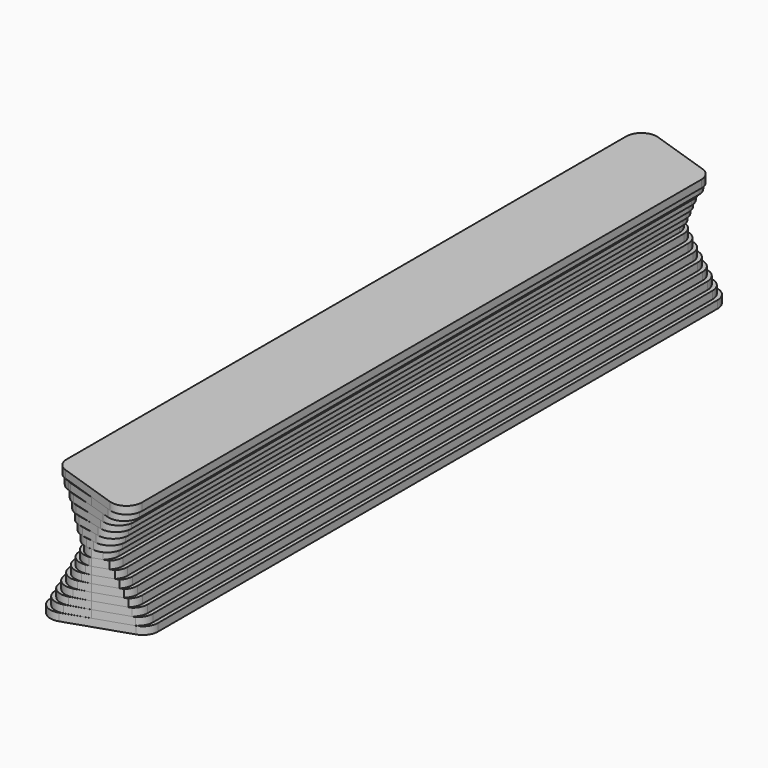
from build123d import *

# Parameters (mm, degrees)
F1_DEPTH  = 6.35
F3_DEPTH  = 6.35
F5_DEPTH  = 6.35
F7_DEPTH  = 6.35
F9_DEPTH  = 6.35
F11_DEPTH = 6.35
F13_DEPTH = 6.35
F15_DEPTH = 6.35
F17_DEPTH = 6.35
F19_DEPTH = 6.35
F21_DEPTH = 6.35
F23_DEPTH = 6.35
F25_DEPTH = 6.35
F27_DEPTH = 6.35
F29_DEPTH = 6.35
F31_DEPTH = 6.35
F33_DEPTH = 6.35


with BuildPart() as f1:
    # F0 (on Top) → F1 (new body)
    with BuildSketch(Plane.XY):
        with BuildLine():
            Line((-38.1, 295.646358), (-38.1, 0))
            Line((-38.1, 0), (-38.1, -287.179691))
            ThreePointArc((-38.1, -287.179691), (-32.825821, -297.482467), (-21.383907, -299.227969))
            Line((-21.383907, -299.227969), (29.416093, -282.294636))
            ThreePointArc((29.416093, -282.294636), (35.702776, -277.672179), (38.1, -270.246358))
            Line((38.1, -270.246358), (38.1, 0))
            Line((38.1, 0), (38.1, 312.579691))
            ThreePointArc((38.1, 312.579691), (32.825821, 322.882467), (21.383907, 324.627969))
            Line((21.383907, 324.627969), (-29.416093, 307.694636))
            ThreePointArc((-29.416093, 307.694636), (-35.702776, 303.072179), (-38.1, 295.646358))
        make_face()
    extrude(amount=F1_DEPTH)


with BuildPart() as f3:
    # F2 (on face) → F3 (new body)
    with BuildSketch(Plane.XY.offset(6.35)):
        with BuildLine():
            Line((-34.925, 297.101033), (-34.925, 0))
            Line((-34.925, 0), (-34.925, -285.844215))
            ThreePointArc((-34.925, -285.844215), (-29.721208, -296.095891), (-18.374314, -297.946372))
            Line((-18.374314, -297.946372), (0, -292.1))
            Line((0, -292.1), (29.032205, -282.422598))
            ThreePointArc((29.032205, -282.422598), (33.354724, -277.818161), (34.925, -271.701033))
            Line((34.925, -271.701033), (34.925, 0))
            Line((34.925, 0), (34.925, 311.244215))
            ThreePointArc((34.925, 311.244215), (29.721208, 321.495891), (18.374314, 323.346372))
            Line((18.374314, 323.346372), (0, 317.5))
            Line((0, 317.5), (-29.032205, 307.822598))
            ThreePointArc((-29.032205, 307.822598), (-33.354724, 303.218161), (-34.925, 297.101033))
        make_face()
    extrude(amount=F3_DEPTH)


with BuildPart() as f5:
    # F4 (on face) → F5 (new body)
    with BuildSketch(Plane.XY.offset(12.7)):
        with BuildLine():
            Line((-31.75, 298.525811), (-31.75, 0))
            Line((-31.75, 0), (-31.75, -284.555811))
            ThreePointArc((-31.75, -284.555811), (-26.631018, -294.744931), (-15.400682, -296.720205))
            Line((-15.400682, -296.720205), (0, -292.1))
            Line((0, -292.1), (26.846144, -283.151285))
            ThreePointArc((26.846144, -283.151285), (30.458353, -278.706087), (31.75, -273.125811))
            Line((31.75, -273.125811), (31.75, 0))
            Line((31.75, 0), (31.75, 309.955811))
            ThreePointArc((31.75, 309.955811), (26.631018, 320.144931), (15.400682, 322.120205))
            Line((15.400682, 322.120205), (0, 317.5))
            Line((0, 317.5), (-26.846144, 308.551285))
            ThreePointArc((-26.846144, 308.551285), (-30.458353, 304.106087), (-31.75, 298.525811))
        make_face()
    extrude(amount=F5_DEPTH)


with BuildPart() as f7:
    # F6 (on face) → F7 (new body)
    with BuildSketch(Plane.XY.offset(19.05)):
        with BuildLine():
            Line((-28.575, 299.909412), (-28.575, 0))
            Line((-28.575, 0), (-28.575, -283.328857))
            ThreePointArc((-28.575, -283.328857), (-23.560106, -293.439699), (-12.475923, -295.565534))
            Line((-12.475923, -295.565534), (0, -292.1))
            Line((0, -292.1), (24.322575, -283.992475))
            ThreePointArc((24.322575, -283.992475), (27.463231, -279.705844), (28.575, -274.509412))
            Line((28.575, -274.509412), (28.575, 0))
            Line((28.575, 0), (28.575, 308.728857))
            ThreePointArc((28.575, 308.728857), (23.560106, 318.839699), (12.475923, 320.965534))
            Line((12.475923, 320.965534), (0, 317.5))
            Line((0, 317.5), (-24.322575, 309.392475))
            ThreePointArc((-24.322575, 309.392475), (-27.463231, 305.105844), (-28.575, 299.909412))
        make_face()
    extrude(amount=F7_DEPTH)


with BuildPart() as f9:
    # F8 (on face) → F9 (new body)
    with BuildSketch(Plane.XY.offset(25.4)):
        with BuildLine():
            Line((-25.4, 301.23414), (-25.4, 0))
            Line((-25.4, 0), (-25.4, -282.18414))
            ThreePointArc((-25.4, -282.18414), (-20.515735, -292.194349), (-9.619798, -294.504949))
            Line((-9.619798, -294.504949), (0, -292.1))
            Line((0, -292.1), (21.59065, -284.903117))
            ThreePointArc((21.59065, -284.903117), (24.408998, -280.752409), (25.4, -275.83414))
            Line((25.4, -275.83414), (25.4, 0))
            Line((25.4, 0), (25.4, 307.58414))
            ThreePointArc((25.4, 307.58414), (20.515735, 317.594349), (9.619798, 319.904949))
            Line((9.619798, 319.904949), (0, 317.5))
            Line((0, 317.5), (-21.59065, 310.303117))
            ThreePointArc((-21.59065, 310.303117), (-24.408998, 306.152409), (-25.4, 301.23414))
        make_face()
    extrude(amount=F9_DEPTH)


with BuildPart() as f11:
    # F10 (on face) → F11 (new body)
    with BuildSketch(Plane.XY.offset(31.75)):
        with BuildLine():
            Line((-22.225, 302.470619), (-22.225, 0))
            Line((-22.225, 0), (-22.225, -281.152762))
            ThreePointArc((-22.225, -281.152762), (-17.509205, -291.029122), (-6.863981, -293.570853))
            Line((-6.863981, -293.570853), (0, -292.1))
            Line((0, -292.1), (18.679052, -285.873649))
            ThreePointArc((18.679052, -285.873649), (21.305205, -281.815803), (22.225, -277.070619))
            Line((22.225, -277.070619), (22.225, 0))
            Line((22.225, 0), (22.225, 306.552762))
            ThreePointArc((22.225, 306.552762), (17.509205, 316.429122), (6.863981, 318.970853))
            Line((6.863981, 318.970853), (0, 317.5))
            Line((0, 317.5), (-18.679052, 311.273649))
            ThreePointArc((-18.679052, 311.273649), (-21.305205, 307.215803), (-22.225, 302.470619))
        make_face()
    extrude(amount=F11_DEPTH)


with BuildPart() as f13:
    # F12 (on face) → F13 (new body)
    with BuildSketch(Plane.XY.offset(38.1)):
        with BuildLine():
            Line((-19.05, 303.566486), (-19.05, 0))
            Line((-19.05, 0), (-19.05, -280.283153))
            ThreePointArc((-19.05, -280.283153), (-14.558961, -289.973506), (-4.262133, -292.810355))
            Line((-4.262133, -292.810355), (0, -292.1))
            Line((0, -292.1), (15.556707, -286.914431))
            ThreePointArc((15.556707, -286.914431), (18.144388, -282.876306), (19.05, -278.166486))
            Line((19.05, -278.166486), (19.05, 0))
            Line((19.05, 0), (19.05, 305.683153))
            ThreePointArc((19.05, 305.683153), (14.558961, 315.373506), (4.262133, 318.210355))
            Line((4.262133, 318.210355), (0, 317.5))
            Line((0, 317.5), (-15.556707, 312.314431))
            ThreePointArc((-15.556707, 312.314431), (-18.144388, 308.276306), (-19.05, 303.566486))
        make_face()
    extrude(amount=F13_DEPTH)


with BuildPart() as f15:
    # F14 (on face) → F15 (new body)
    with BuildSketch(Plane.XY.offset(44.45)):
        with BuildLine():
            Line((-15.875, 304.419158), (-15.875, 0))
            Line((-15.875, 0), (-15.875, -279.654158))
            ThreePointArc((-15.875, -279.654158), (-11.696768, -289.070605), (-1.911303, -292.29113))
            Line((-1.911303, -292.29113), (0, -292.1))
            Line((0, -292.1), (12.081094, -288.072969))
            ThreePointArc((12.081094, -288.072969), (14.888185, -283.927447), (15.875, -279.019158))
            Line((15.875, -279.019158), (15.875, 0))
            Line((15.875, 0), (15.875, 305.054158))
            ThreePointArc((15.875, 305.054158), (11.696768, 314.470605), (1.911303, 317.69113))
            Line((1.911303, 317.69113), (0, 317.5))
            Line((0, 317.5), (-12.081094, 313.472969))
            ThreePointArc((-12.081094, 313.472969), (-14.888185, 309.327447), (-15.875, 304.419158))
        make_face()
    extrude(amount=F15_DEPTH)


with BuildPart() as f17:
    # F16 (on face) → F17 (new body)
    with BuildSketch(Plane.XY.offset(50.8)):
        with BuildLine():
            Line((-12.7, 304.8), (-12.7, 0))
            Line((-12.7, 0), (-12.7, -279.4))
            ThreePointArc((-12.7, -279.4), (-8.980256, -288.380256), (0, -292.1))
            Line((0, -292.1), (7.62, -289.56))
            ThreePointArc((7.62, -289.56), (11.359225, -285.079613), (12.7, -279.4))
            Line((12.7, -279.4), (12.7, 0))
            Line((12.7, 0), (12.7, 304.8))
            ThreePointArc((12.7, 304.8), (8.980256, 313.780256), (0, 317.5))
            Line((0, 317.5), (-7.62, 314.96))
            ThreePointArc((-7.62, 314.96), (-11.359225, 310.479613), (-12.7, 304.8))
        make_face()
    extrude(amount=F17_DEPTH)


with BuildPart() as f19:
    # F18 (on face) → F19 (new body)
    with BuildSketch(Plane.XY.offset(57.15)):
        with BuildLine():
            Line((-15.875, 305.054158), (-15.875, 0))
            Line((-15.875, 0), (-15.875, -279.019158))
            ThreePointArc((-15.875, -279.019158), (-12.591447, -287.540926), (-4.438697, -291.65613))
            Line((-4.438697, -291.65613), (1.911303, -292.29113))
            ThreePointArc((1.911303, -292.29113), (11.696768, -289.070605), (15.875, -279.654158))
            Line((15.875, -279.654158), (15.875, 0))
            Line((15.875, 0), (15.875, 304.419158))
            ThreePointArc((15.875, 304.419158), (12.591447, 312.940926), (4.438697, 317.05613))
            Line((4.438697, 317.05613), (-1.911303, 317.69113))
            ThreePointArc((-1.911303, 317.69113), (-11.696768, 314.470605), (-15.875, 305.054158))
        make_face()
    extrude(amount=F19_DEPTH)


with BuildPart() as f21:
    # F20 (on face) → F21 (new body)
    with BuildSketch(Plane.XY.offset(63.5)):
        with BuildLine():
            Line((-19.05, 305.683153), (-19.05, 0))
            Line((-19.05, 0), (-19.05, -278.166486))
            ThreePointArc((-19.05, -278.166486), (-16.040354, -286.375447), (-8.437867, -290.693689))
            Line((-8.437867, -290.693689), (4.262133, -292.810355))
            ThreePointArc((4.262133, -292.810355), (14.558961, -289.973506), (19.05, -280.283153))
            Line((19.05, -280.283153), (19.05, 0))
            Line((19.05, 0), (19.05, 303.566486))
            ThreePointArc((19.05, 303.566486), (16.040354, 311.775447), (8.437867, 316.093689))
            Line((8.437867, 316.093689), (-4.262133, 318.210355))
            ThreePointArc((-4.262133, 318.210355), (-14.558961, 315.373506), (-19.05, 305.683153))
        make_face()
    extrude(amount=F21_DEPTH)


with BuildPart() as f23:
    # F22 (on face) → F23 (new body)
    with BuildSketch(Plane.XY.offset(69.85)):
        with BuildLine():
            Line((-22.225, 306.552762), (-22.225, 0))
            Line((-22.225, 0), (-22.225, -277.070619))
            ThreePointArc((-22.225, -277.070619), (-19.401359, -285.054824), (-12.186019, -289.48871))
            Line((-12.186019, -289.48871), (6.863981, -293.570853))
            ThreePointArc((6.863981, -293.570853), (17.509205, -291.029122), (22.225, -281.152762))
            Line((22.225, -281.152762), (22.225, 0))
            Line((22.225, 0), (22.225, 302.470619))
            ThreePointArc((22.225, 302.470619), (19.401359, 310.454824), (12.186019, 314.88871))
            Line((12.186019, 314.88871), (-6.863981, 318.970853))
            ThreePointArc((-6.863981, 318.970853), (-17.509205, 316.429122), (-22.225, 306.552762))
        make_face()
    extrude(amount=F23_DEPTH)


with BuildPart() as f25:
    # F24 (on face) → F25 (new body)
    with BuildSketch(Plane.XY.offset(76.2)):
        with BuildLine():
            Line((-25.4, 307.58414), (-25.4, 0))
            Line((-25.4, 0), (-25.4, -275.83414))
            ThreePointArc((-25.4, -275.83414), (-22.710209, -283.649875), (-15.780202, -288.154949))
            Line((-15.780202, -288.154949), (9.619798, -294.504949))
            ThreePointArc((9.619798, -294.504949), (20.515735, -292.194349), (25.4, -282.18414))
            Line((25.4, -282.18414), (25.4, 0))
            Line((25.4, 0), (25.4, 301.23414))
            ThreePointArc((25.4, 301.23414), (22.710209, 309.049875), (15.780202, 313.554949))
            Line((15.780202, 313.554949), (-9.619798, 319.904949))
            ThreePointArc((-9.619798, 319.904949), (-20.515735, 317.594349), (-25.4, 307.58414))
        make_face()
    extrude(amount=F25_DEPTH)


with BuildPart() as f27:
    # F26 (on face) → F27 (new body)
    with BuildSketch(Plane.XY.offset(82.55)):
        with BuildLine():
            Line((-28.575, 308.728857), (-28.575, 0))
            Line((-28.575, 0), (-28.575, -274.509412))
            ThreePointArc((-28.575, -274.509412), (-25.985843, -282.194519), (-19.274077, -286.74609))
            Line((-19.274077, -286.74609), (12.475923, -295.565534))
            ThreePointArc((12.475923, -295.565534), (23.560106, -293.439699), (28.575, -283.328857))
            Line((28.575, -283.328857), (28.575, 0))
            Line((28.575, 0), (28.575, 299.909412))
            ThreePointArc((28.575, 299.909412), (25.985843, 307.594519), (19.274077, 312.14609))
            Line((19.274077, 312.14609), (-12.475923, 320.965534))
            ThreePointArc((-12.475923, 320.965534), (-23.560106, 318.839699), (-28.575, 308.728857))
        make_face()
    extrude(amount=F27_DEPTH)


with BuildPart() as f29:
    # F28 (on face) → F29 (new body)
    with BuildSketch(Plane.XY.offset(88.9)):
        with BuildLine():
            Line((-31.75, 309.955811), (-31.75, 0))
            Line((-31.75, 0), (-31.75, -273.125811))
            ThreePointArc((-31.75, -273.125811), (-29.23912, -280.706828), (-22.699318, -285.290205))
            Line((-22.699318, -285.290205), (15.400682, -296.720205))
            ThreePointArc((15.400682, -296.720205), (26.631018, -294.744931), (31.75, -284.555811))
            Line((31.75, -284.555811), (31.75, 0))
            Line((31.75, 0), (31.75, 298.525811))
            ThreePointArc((31.75, 298.525811), (29.23912, 306.106828), (22.699318, 310.690205))
            Line((22.699318, 310.690205), (-15.400682, 322.120205))
            ThreePointArc((-15.400682, 322.120205), (-26.631018, 320.144931), (-31.75, 309.955811))
        make_face()
    extrude(amount=F29_DEPTH)


with BuildPart() as f31:
    # F30 (on face) → F31 (new body)
    with BuildSketch(Plane.XY.offset(88.9)):
        with BuildLine():
            Line((-34.925, 311.244215), (-34.925, 0))
            Line((-34.925, 0), (-34.925, -271.701033))
            ThreePointArc((-34.925, -271.701033), (-32.476676, -279.197242), (-26.075686, -283.803191))
            Line((-26.075686, -283.803191), (18.374314, -297.946372))
            ThreePointArc((18.374314, -297.946372), (29.721208, -296.095891), (34.925, -285.844215))
            Line((34.925, -285.844215), (34.925, 0))
            Line((34.925, 0), (34.925, 297.101033))
            ThreePointArc((34.925, 297.101033), (32.476676, 304.597242), (26.075686, 309.203191))
            Line((26.075686, 309.203191), (-18.374314, 323.346372))
            ThreePointArc((-18.374314, 323.346372), (-29.721208, 321.495891), (-34.925, 311.244215))
        make_face()
    extrude(amount=F31_DEPTH)


with BuildPart() as f33:
    # F32 (on face) → F33 (new body)
    with BuildSketch(Plane.XY.offset(95.25)):
        with BuildLine():
            Line((-38.1, 312.579691), (-38.1, 0))
            Line((-38.1, 0), (-38.1, -270.246358))
            ThreePointArc((-38.1, -270.246358), (-35.702776, -277.672179), (-29.416093, -282.294636))
            Line((-29.416093, -282.294636), (21.383907, -299.227969))
            ThreePointArc((21.383907, -299.227969), (32.825821, -297.482467), (38.1, -287.179691))
            Line((38.1, -287.179691), (38.1, 0))
            Line((38.1, 0), (38.1, 295.646358))
            ThreePointArc((38.1, 295.646358), (35.702776, 303.072179), (29.416093, 307.694636))
            Line((29.416093, 307.694636), (-21.383907, 324.627969))
            ThreePointArc((-21.383907, 324.627969), (-32.825821, 322.882467), (-38.1, 312.579691))
        make_face()
    extrude(amount=F33_DEPTH)


solid = Compound([f1.part, f3.part, f5.part, f7.part, f9.part, f11.part, f13.part, f15.part, f17.part, f19.part, f21.part, f23.part, f25.part, f27.part, f29.part, f31.part, f33.part])
